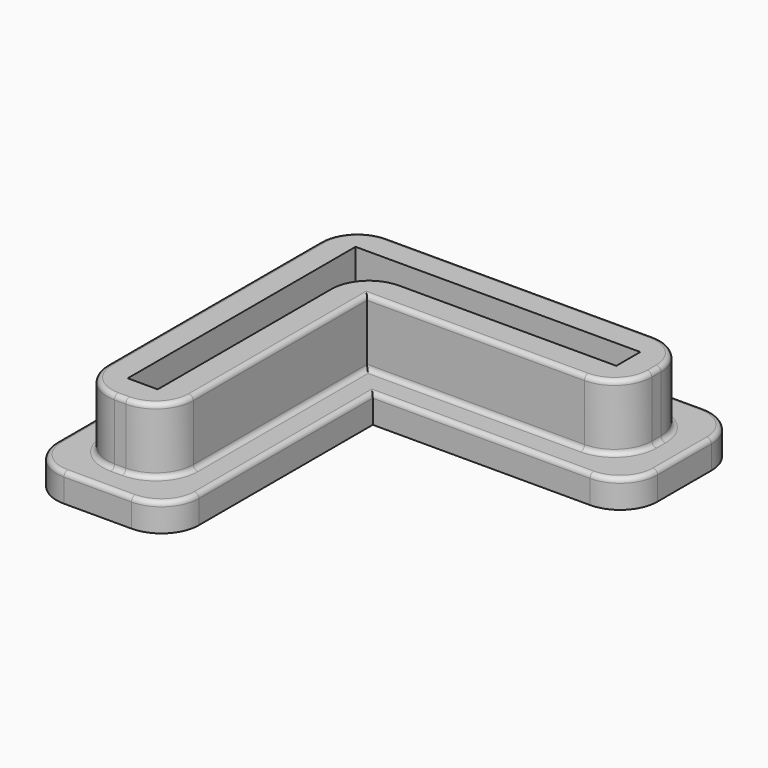
from build123d import *

# Parameters (mm, degrees)
F1_DEPTH = 3
F2_DEPTH = 10
F3_R     = 4
F4_R     = 0.5


with BuildPart() as f1:
    # F0 (on Top) → F1 (new body)
    with BuildSketch(Plane.XY):
        Polygon((-10.9281279506, 21.8490213156), (-10.9281279506, -20.5509786844), (4.2718720494, -20.5509786844), (4.2718720494, 6.6490213156), (31.4718720494, 6.6490213156), (31.4718720494, 21.8490213156), align=None)
        Polygon((28.4718720494, 18.8490213156), (28.4718720494, 9.6490213156), (1.2718720494, 9.6490213156), (1.2718720494, -17.5509786844), (-7.9281279506, -17.5509786844), (-7.9281279506, 18.8490213156), align=None, mode=Mode.SUBTRACT)
        Polygon((1.2718720494, 9.6490213156), (28.4718720494, 9.6490213156), (28.4718720494, 18.8490213156), (-7.9281279506, 18.8490213156), (-7.9281279506, -17.5509786844), (1.2718720494, -17.5509786844), align=None)
        Polygon((-1.7281279506, -14.5509786844), (-4.9281279506, -14.5509786844), (-4.9281279506, 15.8490213156), (25.4718720494, 15.8490213156), (25.4718720494, 12.6490213156), (-1.7281279506, 12.6490213156), align=None, mode=Mode.SUBTRACT)
        Polygon((-4.9281279506, 15.8490213156), (-4.9281279506, -14.5509786844), (-1.7281279506, -14.5509786844), (-1.7281279506, 12.6490213156), (25.4718720494, 12.6490213156), (25.4718720494, 15.8490213156), align=None)
    extrude(amount=F1_DEPTH)

    # F0 (on Top) → F2 (join)
    with BuildSketch(Plane.XY):
        Polygon((1.2718720494, 9.6490213156), (28.4718720494, 9.6490213156), (28.4718720494, 18.8490213156), (-7.9281279506, 18.8490213156), (-7.9281279506, -17.5509786844), (1.2718720494, -17.5509786844), align=None)
        Polygon((-1.7281279506, -14.5509786844), (-4.9281279506, -14.5509786844), (-4.9281279506, 15.8490213156), (25.4718720494, 15.8490213156), (25.4718720494, 12.6490213156), (-1.7281279506, 12.6490213156), align=None, mode=Mode.SUBTRACT)
    extrude(amount=F2_DEPTH)

    # F3
    f3_edges = [f1.edges().sort_by_distance(p)[0] for p in [
        (4.271872, -20.550979, 1.5),
        (31.471872, 6.649021, 1.5),
        (31.471872, 21.849021, 1.5),
        (-10.928128, 21.849021, 1.5),
        (-10.928128, -20.550979, 1.5),
        (1.271872, -17.550979, 6.5),
        (28.471872, 9.649021, 6.5),
        (28.471872, 18.849021, 6.5),
        (-7.928128, -17.550979, 6.5),
        (-1.728128, 12.649021, 6.5),
        (-7.928128, 18.849021, 6.5),
    ]]
    fillet(f3_edges, radius=F3_R)

    # F4
    f4_edges = [f1.edges().sort_by_distance(p)[0] for p in [
        (-10.928128, 0.649021, 3),
        (-9.756555, 20.677448, 3),
        (-9.756555, -19.379406, 3),
        (10.271872, 21.849021, 3),
        (-3.328128, -20.550979, 3),
        (30.300299, 20.677448, 3),
        (3.100299, -19.379406, 3),
        (31.471872, 14.249021, 3),
        (4.271872, -4.950979, 3),
        (30.300299, 7.820594, 3),
        (15.871872, 6.649021, 3),
        (1.271872, -1.950979, 3),
        (0.100299, -16.379406, 3),
        (12.871872, 9.649021, 3),
        (-3.328128, -17.550979, 3),
        (27.300299, 10.820594, 3),
        (-6.756555, -16.379406, 3),
        (28.471872, 14.249021, 3),
        (-7.928128, 0.649021, 3),
        (27.300299, 17.677448, 3),
        (-6.756555, 17.677448, 3),
        (10.271872, 18.849021, 3),
        (-7.928128, 0.649021, 10),
        (-6.756555, 17.677448, 10),
        (10.271872, 18.849021, 10),
        (27.300299, 17.677448, 10),
    ]]
    fillet(f4_edges, radius=F4_R)


solid = f1.part
